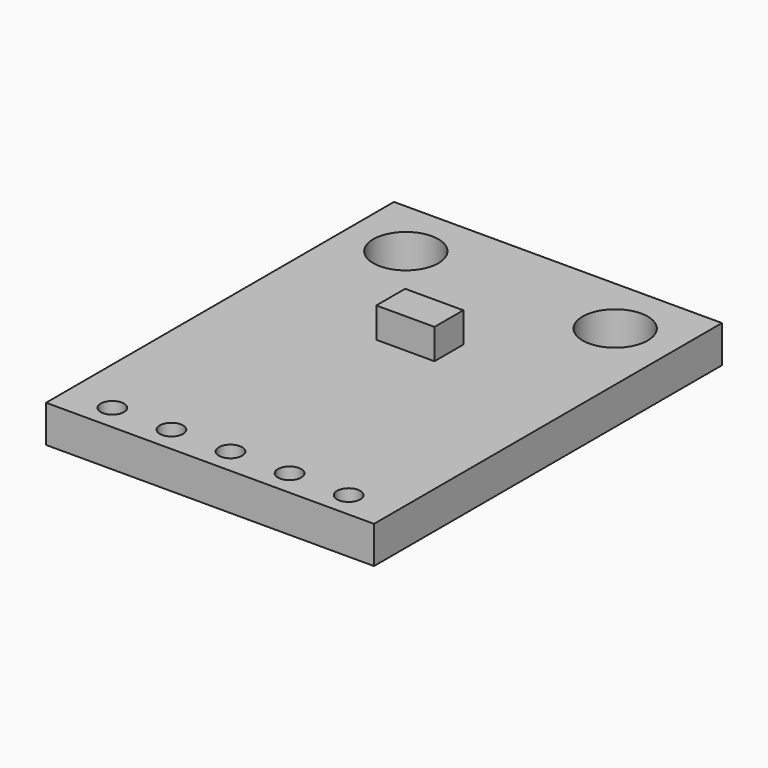
from build123d import *

# Parameters (mm, degrees)
F0_W     = 14.1
F0_H     = 18.7
F0_R     = 0.5
F0_R_2   = 1.4
F1_DEPTH = 1.6
F2_W     = 2.5
F2_H     = 1.55
F3_DEPTH = 1.3


with BuildPart() as f1:
    # F0 (on Top) → F1 (new body)
    with BuildSketch(Plane.XY):
        Rectangle(F0_W, F0_H)
        with Locations((-5.08, -8.25)):
            Circle(F0_R, mode=Mode.SUBTRACT)
        with Locations((-2.54, -8.25)):
            Circle(F0_R, mode=Mode.SUBTRACT)
        with Locations((0, -8.25)):
            Circle(F0_R, mode=Mode.SUBTRACT)
        with Locations((2.54, -8.25)):
            Circle(F0_R, mode=Mode.SUBTRACT)
        with Locations((5.08, -8.25)):
            Circle(F0_R, mode=Mode.SUBTRACT)
        with Locations((-4.5, 6.8)):
            Circle(F0_R_2, mode=Mode.SUBTRACT)
        with Locations((4.5, 6.8)):
            Circle(F0_R_2, mode=Mode.SUBTRACT)
    extrude(amount=F1_DEPTH)

    # F2 (on face) → F3 (join)
    with BuildSketch(Plane.XY.offset(1.6)):
        with Locations((0, 1.925)):
            Rectangle(F2_W, F2_H)
    extrude(amount=F3_DEPTH)


solid = f1.part
